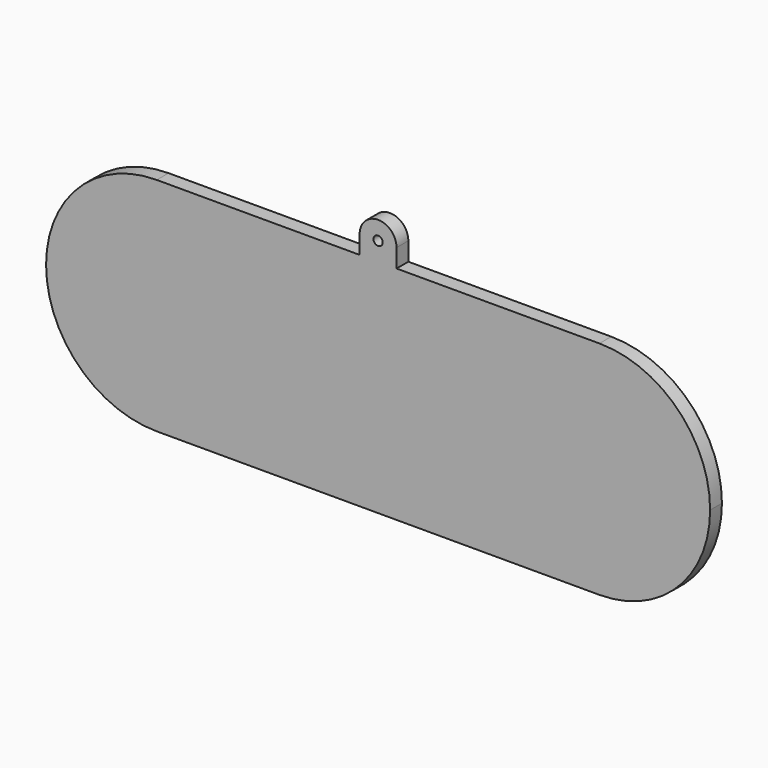
from build123d import *

# Parameters (mm, degrees)
F1_DEPTH = 5.08


with BuildPart() as f1:
    # F0 (on Front) → F1 (new body)
    with BuildSketch(Plane.XZ):
        with BuildLine():
            ThreePointArc((-38.1, 0), (-49.2592316368, 26.9407683632), (-76.2, 38.1))
            Line((-76.2, 38.1), (-76.2, -38.1))
            ThreePointArc((-76.2, -38.1), (-49.2592316368, -26.9407683632), (-38.1, 0))
        make_face()
        with BuildLine():
            Line((-6.35, 38.1), (-76.2, 38.1))
            ThreePointArc((-76.2, 38.1), (-49.2592316368, 26.9407683632), (-38.1, 0))
            ThreePointArc((-38.1, 0), (-49.2592316368, -26.9407683632), (-76.2, -38.1))
            Line((-76.2, -38.1), (76.2, -38.1))
            ThreePointArc((76.2, -38.1), (38.1, 0), (76.2, 38.1))
            Line((76.2, 38.1), (6.35, 38.1))
            Line((6.35, 38.1), (0, 38.1))
            Line((0, 38.1), (-6.35, 38.1))
        make_face()
        with BuildLine():
            Line((-76.2, -38.1), (-76.2, 38.1))
            ThreePointArc((-76.2, 38.1), (-114.3, 0), (-76.2, -38.1))
        make_face()
        with BuildLine():
            Line((-6.35, 44.45), (-6.35, 38.1))
            Line((-6.35, 38.1), (0, 38.1))
            ThreePointArc((0, 38.1), (-4.4901280605, 39.9598719395), (-6.35, 44.45))
        make_face()
        with BuildLine():
            ThreePointArc((6.35, 44.45), (4.4901280605, 39.9598719395), (0, 38.1))
            Line((0, 38.1), (6.35, 38.1))
            Line((6.35, 38.1), (6.35, 44.45))
        make_face()
        with BuildLine():
            ThreePointArc((-6.35, 44.45), (-4.4901280605, 39.9598719395), (0, 38.1))
            ThreePointArc((0, 38.1), (4.4901280605, 39.9598719395), (6.35, 44.45))
            Line((6.35, 44.45), (1.5875, 44.45))
            ThreePointArc((1.5875, 44.45), (0, 42.8625), (-1.5875, 44.45))
            Line((-1.5875, 44.45), (-6.35, 44.45))
        make_face()
        with BuildLine():
            ThreePointArc((6.35, 44.45), (0, 50.8), (-6.35, 44.45))
            Line((-6.35, 44.45), (-1.5875, 44.45))
            ThreePointArc((-1.5875, 44.45), (0, 46.0375), (1.5875, 44.45))
            Line((1.5875, 44.45), (6.35, 44.45))
        make_face()
        with BuildLine():
            ThreePointArc((76.2, 38.1), (38.1, 0), (76.2, -38.1))
            Line((76.2, -38.1), (76.2, 38.1))
        make_face()
        with BuildLine():
            Line((76.2, 38.1), (76.2, -38.1))
            ThreePointArc((76.2, -38.1), (103.1407683632, -26.9407683632), (114.3, 0))
            ThreePointArc((114.3, 0), (103.1407683632, 26.9407683632), (76.2, 38.1))
        make_face()
    extrude(amount=F1_DEPTH)


solid = f1.part
